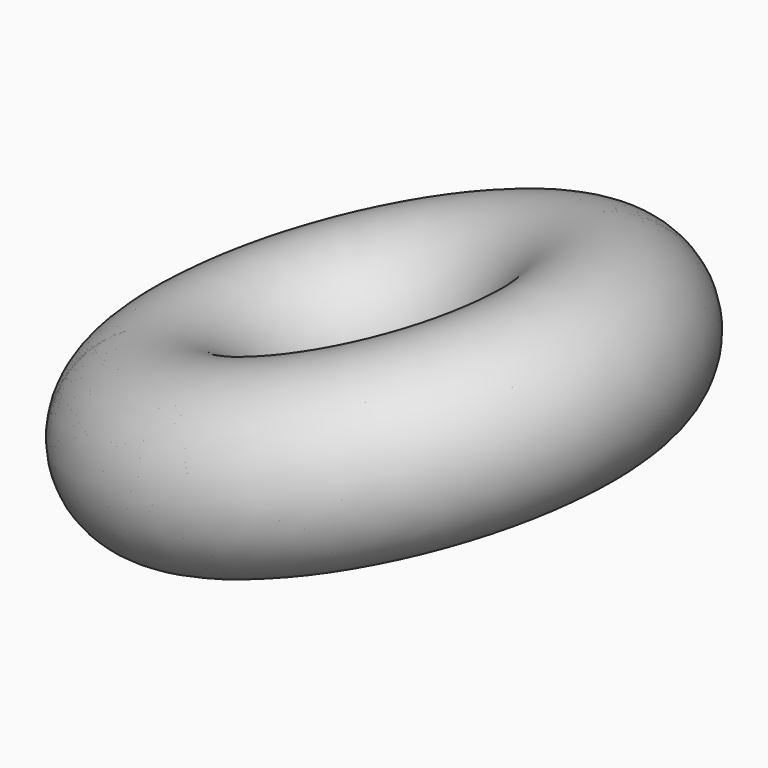
from build123d import *

# Parameters (mm, degrees)
F0_R   = 387.2761706612
F0_R_2 = 158.2327485085
F0_R_3 = 134.7371842993
F0_R_4 = 59.3051096047


with BuildPart() as f1:
    # F0 (on Front) → F1 (revolve)
    with BuildSketch(Plane.XZ):
        with Locations((564.2246007919, 33.3121567965)):
            Circle(F0_R)
        with Locations((564.2246007919, 33.3121567965)):
            Circle(F0_R_2, mode=Mode.SUBTRACT)
    revolve(axis=Axis((-260.2512128651, 0, -56.2142580748), (0.3064600638, 0, -0.9518835167)))


with BuildPart() as f1b:
    # F0 (on Front) → F1, piece 2 (revolve)
    with BuildSketch(Plane.XZ):
        with Locations((88.2535427809, -484.5913946629)):
            Circle(F0_R_3)
        with Locations((88.2535427809, -484.5913946629)):
            Circle(F0_R_4, mode=Mode.SUBTRACT)
    revolve(axis=Axis((-260.2512128651, 0, -56.2142580748), (0.3064600638, 0, -0.9518835167)))


with BuildPart() as f2:
    # F0 (on Front) → F2 (revolve)
    with BuildSketch(Plane.XZ):
        with Locations((564.2246007919, 33.3121567965)):
            Circle(F0_R)
        with Locations((564.2246007919, 33.3121567965)):
            Circle(F0_R_2, mode=Mode.SUBTRACT)
    revolve(axis=Axis((-208.9344163747, 0, -215.6073355745), (-0.3064600638, 0, 0.9518835167)))


with BuildPart() as f2b:
    # F0 (on Front) → F2, piece 2 (revolve)
    with BuildSketch(Plane.XZ):
        with Locations((88.2535427809, -484.5913946629)):
            Circle(F0_R_3)
        with Locations((88.2535427809, -484.5913946629)):
            Circle(F0_R_4, mode=Mode.SUBTRACT)
    revolve(axis=Axis((-208.9344163747, 0, -215.6073355745), (-0.3064600638, 0, 0.9518835167)))


solid = Compound([f1.part, f1b.part, f2.part, f2b.part])
